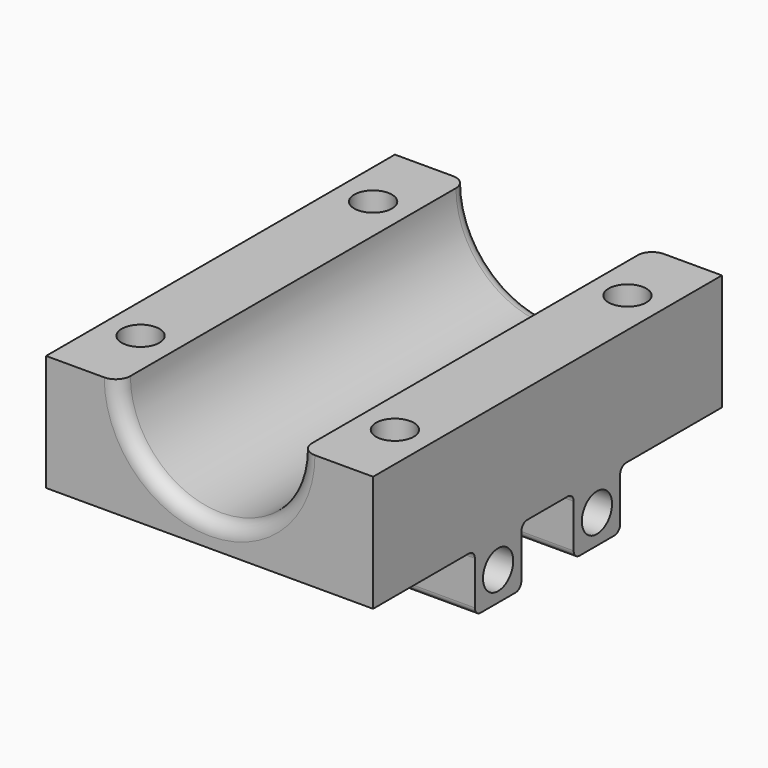
from build123d import *

# Parameters (mm, degrees)
F1_DEPTH = 60
F2_R     = 2.6
F3_DEPTH = 25
F4_R     = 2
F5_W     = 45
F5_H     = 8
F6_DEPTH = 8
F7_R     = 2.6
F8_DEPTH = 50
F9_R     = 1


with BuildPart() as f1:
    # F0 (on Front) → F1 (new body)
    with BuildSketch(Plane.XZ):
        with BuildLine():
            ThreePointArc((12.5, 0), (0, -12.5), (-12.5, 0))
            Line((-12.5, 0), (-22.5, 0))
            Line((-22.5, 0), (-22.5, -16))
            Line((-22.5, -16), (22.5, -16))
            Line((22.5, -16), (22.5, 0))
            Line((22.5, 0), (12.5, 0))
        make_face()
    extrude(amount=F1_DEPTH)

    # F2 (on face) → F3 (cut)
    with BuildSketch(Plane.XY):
        with Locations((-17.5, -50)):
            Circle(F2_R)
        with Locations((-17.5, -10)):
            Circle(F2_R)
        with Locations((17.5, -50)):
            Circle(F2_R)
        with Locations((17.5, -10)):
            Circle(F2_R)
    extrude(amount=-F3_DEPTH, mode=Mode.SUBTRACT)

    # F4
    f4_edges = [f1.edges().sort_by_distance(p)[0] for p in [
        (0, -60, -12.5),
        (0, 0, -12.5),
    ]]
    fillet(f4_edges, radius=F4_R)

    # F5 (on face) → F6 (join)
    with BuildSketch(Plane(origin=(0, 0, -16), x_dir=(1, 0, 0), z_dir=(0, 0, -1))):
        with Locations((0, 21.5)):
            Rectangle(F5_W, F5_H)
        with Locations((0, 38.5)):
            Rectangle(F5_W, F5_H)
    extrude(amount=F6_DEPTH)

    # F7 (on face) → F8 (cut)
    with BuildSketch(Plane(origin=(-22.5, 0, 0), x_dir=(0, -1, 0), z_dir=(-1, 0, 0))):
        with Locations((38.5, -20)):
            Circle(F7_R)
        with Locations((21.5, -20)):
            Circle(F7_R)
    extrude(amount=-F8_DEPTH, mode=Mode.SUBTRACT)

    # F9
    f9_edges = [f1.edges().sort_by_distance(p)[0] for p in [
        (0, -17.5, -24),
        (0, -17.5, -16),
        (0, -25.5, -24),
        (0, -25.5, -16),
        (0, -34.5, -16),
        (0, -34.5, -24),
        (0, -42.5, -24),
        (0, -42.5, -16),
    ]]
    fillet(f9_edges, radius=F9_R)


solid = f1.part
